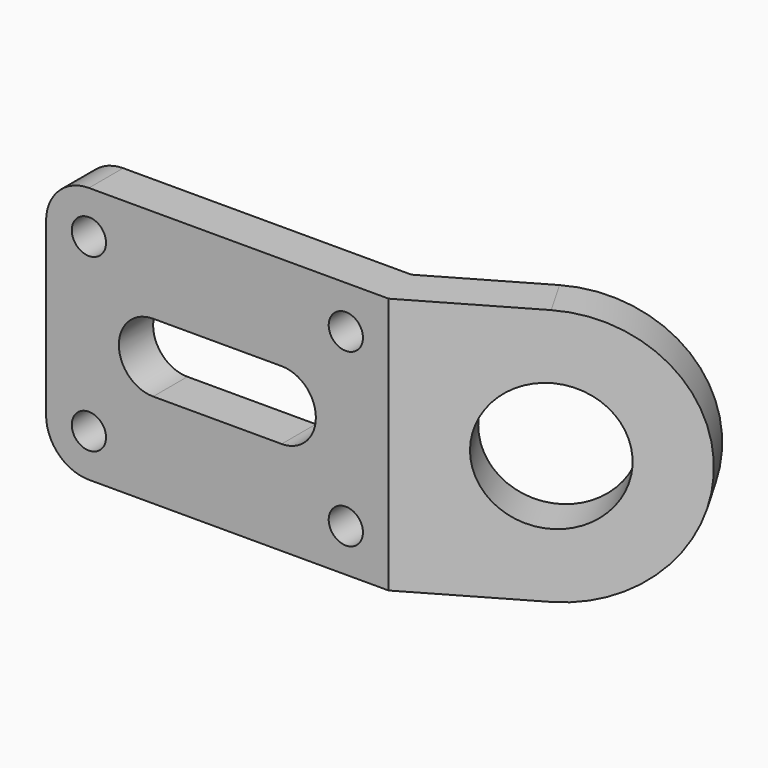
from build123d import *

# Parameters (mm, degrees)
F0_R     = 4
F1_DEPTH = 10
F3_R     = 15
F4_DEPTH = 10


with BuildPart() as f1:
    # F0 (on Front) → F1 (new body)
    with BuildSketch(Plane.XZ):
        with BuildLine():
            Line((40, 30), (-30, 30))
            ThreePointArc((-30, 30), (-37.071068, 27.071068), (-40, 20))
            Line((-40, 20), (-40, -20))
            ThreePointArc((-40, -20), (-37.071068, -27.071068), (-30, -30))
            Line((-30, -30), (40, -30))
            Line((40, -30), (40, 30))
        make_face()
        with Locations((-30, -20)):
            Circle(F0_R, mode=Mode.SUBTRACT)
        with BuildLine():
            ThreePointArc((14.999998, 8), (22.999998, 2e-06), (15.000002, -8))
            Line((15.000002, -8), (-14.999998, -8))
            ThreePointArc((-14.999998, -8), (-23.000002, -2e-06), (-15.000002, 8))
            Line((-15.000002, 8), (14.999998, 8))
        make_face(mode=Mode.SUBTRACT)
        with Locations((30, -20)):
            Circle(F0_R, mode=Mode.SUBTRACT)
        with Locations((-30, 20)):
            Circle(F0_R, mode=Mode.SUBTRACT)
        with Locations((30, 20)):
            Circle(F0_R, mode=Mode.SUBTRACT)
    extrude(amount=F1_DEPTH)

    # F3 (on face) → F4 (join)
    with BuildSketch(Plane(origin=(14.330127, -24.820508, 0), x_dir=(-0.866025, -0.5, 0), z_dir=(-0.5, 0.866025, 0))):
        with BuildLine():
            Line((-59.641016, -30), (-29.641016, -30))
            Line((-29.641016, -30), (-29.641016, 30))
            Line((-29.641016, 30), (-59.641016, 30))
            ThreePointArc((-59.641016, 30), (-89.641016, 0), (-59.641016, -30))
        make_face()
        with Locations((-59.641016, 0)):
            Circle(F3_R, mode=Mode.SUBTRACT)
    extrude(amount=F4_DEPTH)


solid = f1.part
